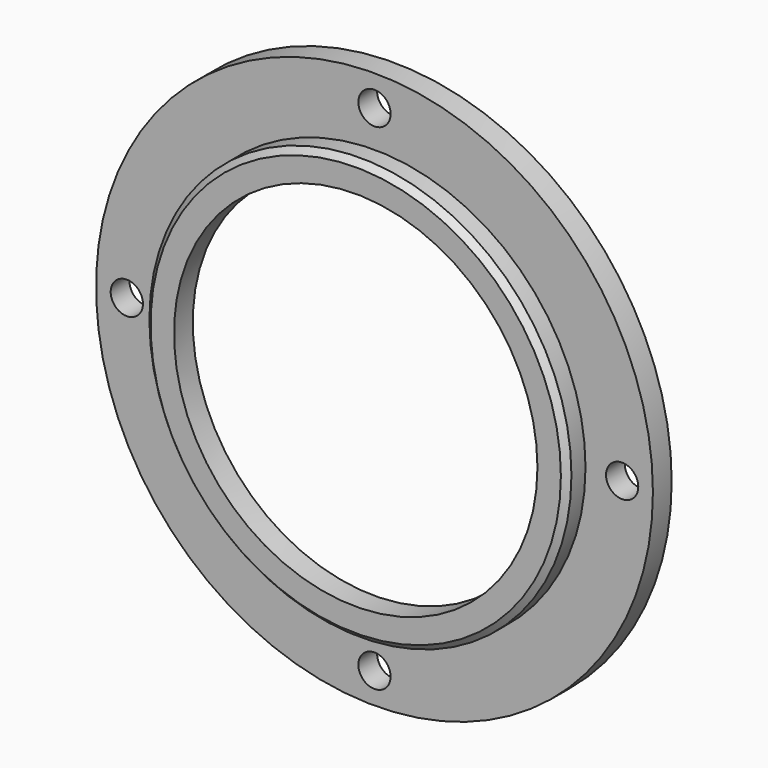
from build123d import *

# Parameters (mm, degrees)
F0_R     = 47.5
F0_R_2   = 2.75
F0_R_3   = 36
F1_DEPTH = 4
F2_R     = 36
F3_DEPTH = 4
F4_R     = 31
F5_DEPTH = 4
F6_SIZE  = 1


with BuildPart() as f1:
    # F0 (on Front) → F1 (new body)
    with BuildSketch(Plane.XZ):
        Circle(F0_R)
        with Locations((0, -42.25)):
            Circle(F0_R_2, mode=Mode.SUBTRACT)
        with Locations((-42.25, 0)):
            Circle(F0_R_2, mode=Mode.SUBTRACT)
        Circle(F0_R_3, mode=Mode.SUBTRACT)
        with Locations((42.25, 0)):
            Circle(F0_R_2, mode=Mode.SUBTRACT)
        with Locations((0, 42.25)):
            Circle(F0_R_2, mode=Mode.SUBTRACT)
    extrude(amount=F1_DEPTH)


with BuildPart() as f3:
    # F2 (on face) → F3 (new body)
    with BuildSketch(Plane.XZ.offset(4)):
        Circle(F2_R)
    extrude(amount=F3_DEPTH)

    # F4 (on face) → F5 (cut, through all)
    with BuildSketch(Plane.XZ.offset(8)):
        Circle(F4_R)
    extrude(amount=-F5_DEPTH, mode=Mode.SUBTRACT)

    # F6
    f6_edges = [f3.edges().sort_by_distance(p)[0] for p in [
        (-36, -8, 0),
    ]]
    chamfer(f6_edges, length=F6_SIZE)


solid = Compound([f1.part, f3.part])
